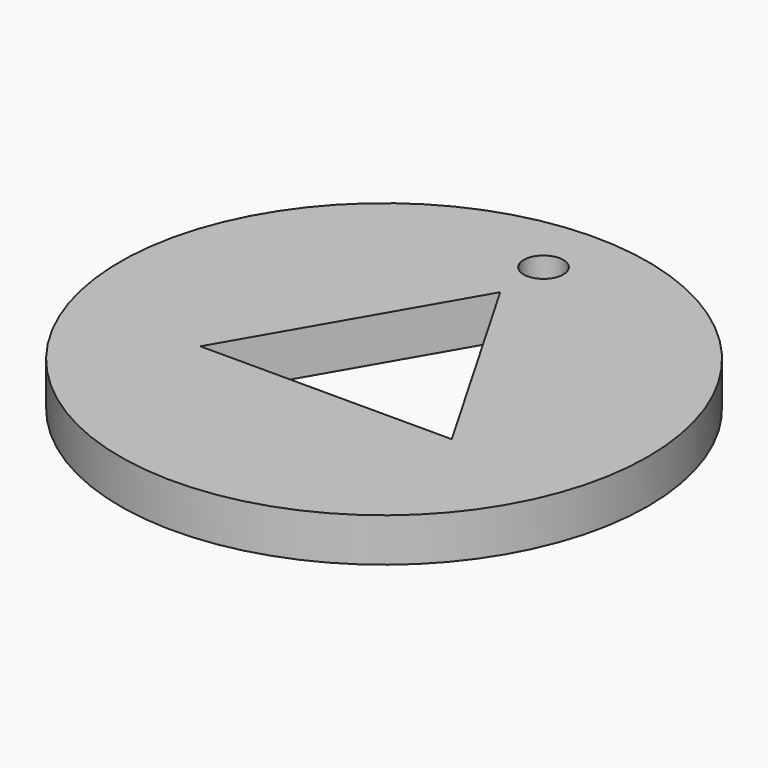
from build123d import *

# Parameters (mm, degrees)
CYLINDER_R      = 20
CYLINDER_DEPTH  = 3.3
SKETCH_R        = 1.5
POCKET_DEPTH    = 3.301
POCKET001_DEPTH = 5


with BuildPart() as part:
    # Cylinder → Cylinder (new body)
    with BuildSketch(Plane.XY):
        Circle(CYLINDER_R)
    extrude(amount=CYLINDER_DEPTH)

    # Sketch → Pocket (cut, through all)
    with BuildSketch(Plane.XY.offset(3.3)):
        with Locations((0, 15.1)):
            Circle(SKETCH_R)
    extrude(amount=-POCKET_DEPTH, mode=Mode.SUBTRACT)

    # Sketch001 → Pocket001 (cut)
    with BuildSketch(Plane.XY.offset(3.3)):
        Polygon((0, 11), (-9.526279, -5.5), (9.526279, -5.5), align=None)
    extrude(amount=-POCKET001_DEPTH, mode=Mode.SUBTRACT)


solid = part.part
